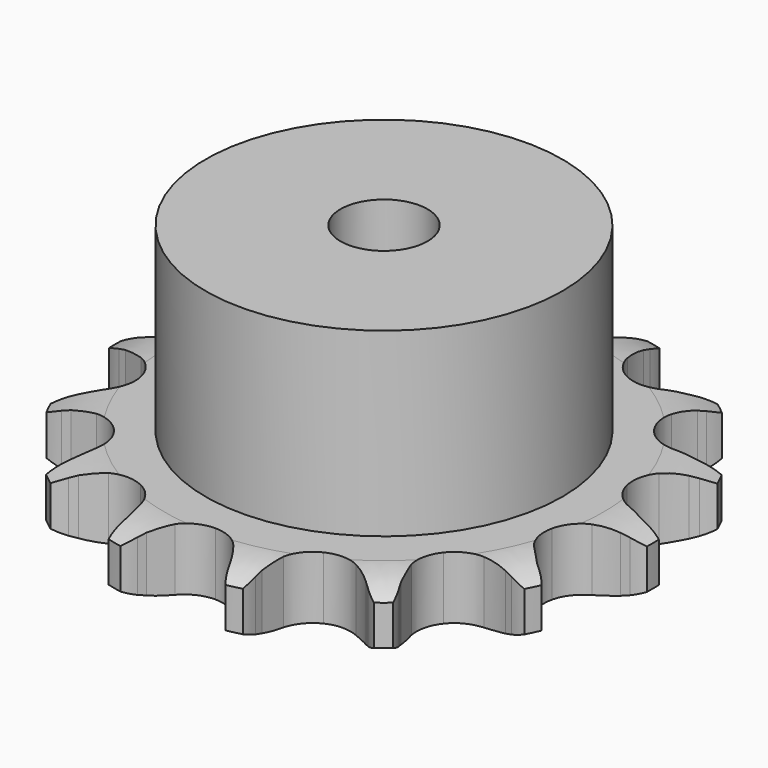
from build123d import *

# Parameters (mm, degrees)
PAD_DEPTH         = 7.2
SKETCH001_R       = 20.5
PAD001_DEPTH      = 28
SKETCH002_R       = 5
POCKET_DEPTH      = 0.001
POCKET_DEPTH_BACK = -28.001


with BuildPart() as part:
    # Sprocket → Pad (new body)
    with BuildSketch(Plane.XY):
        with BuildLine():
            ThreePointArc((-7.17871, 31.451983), (-6.034114, 30.303576), (-5.179097, 28.925938))
            Line((-5.179097, 28.925938), (-4.787351, 28.096657))
            ThreePointArc((-4.787351, 28.096657), (-4.133422, 26.906461), (-3.339318, 25.804831))
            ThreePointArc((-3.339318, 25.804831), (-1.847671, 24.637931), (0, 24.222266))
            ThreePointArc((0, 24.222266), (1.847671, 24.637931), (3.339318, 25.804831))
            ThreePointArc((3.339318, 25.804831), (4.133422, 26.906461), (4.787351, 28.096657))
            Line((4.787351, 28.096657), (5.179097, 28.925938))
            ThreePointArc((5.179097, 28.925938), (6.034114, 30.303576), (7.17871, 31.451983))
            ThreePointArc((7.17871, 31.451983), (7.71168, 29.920683), (7.884289, 28.308496))
            Line((7.884289, 28.308496), (7.877429, 27.391367))
            ThreePointArc((7.877429, 27.391367), (7.950192, 26.035308), (8.187675, 24.698225))
            ThreePointArc((8.187675, 24.698225), (9.025303, 22.999683), (10.509647, 21.823508))
            ThreePointArc((10.509647, 21.823508), (12.354692, 21.396334), (14.204918, 21.800473))
            Line((14.204918, 21.800473), (16.503937, 23.23706))
            ThreePointArc((16.503937, 23.23706), (16.854366, 23.533002), (17.2167, 23.814244))
            ThreePointArc((17.2167, 23.814244), (18.584778, 24.684474), (20.114298, 25.222532))
            ThreePointArc((20.114298, 25.222532), (19.930081, 23.611631), (19.386095, 22.084209))
            Line((19.386095, 22.084209), (18.981987, 21.260881))
            ThreePointArc((18.981987, 21.260881), (18.459172, 20.007543), (18.092998, 18.699833))
            ThreePointArc((18.092998, 18.699833), (18.110706, 16.806066), (18.93773, 15.102336))
            ThreePointArc((18.93773, 15.102336), (20.414714, 13.916931), (22.25706, 13.478265))
            Line((22.25706, 13.478265), (24.951716, 13.775078))
            ThreePointArc((24.951716, 13.775078), (25.395846, 13.889666), (25.844324, 13.985846))
            ThreePointArc((25.844324, 13.985846), (27.454498, 14.17631), (29.066003, 13.997449))
            ThreePointArc((29.066003, 13.997449), (28.201085, 12.626006), (27.048247, 11.485873))
            Line((27.048247, 11.485873), (26.32693, 10.919416))
            ThreePointArc((26.32693, 10.919416), (25.312087, 10.017039), (24.414782, 8.997709))
            ThreePointArc((24.414782, 8.997709), (23.609061, 7.283802), (23.614963, 5.389961))
            ThreePointArc((23.614963, 5.389961), (24.431352, 3.681109), (25.900918, 2.486521))
            Line((25.900918, 2.486521), (28.457501, 1.584772))
            ThreePointArc((28.457501, 1.584772), (28.907367, 1.495312), (29.353162, 1.38738))
            ThreePointArc((29.353162, 1.38738), (30.886519, 0.860354), (32.26083, 0))
            ThreePointArc((32.26083, 0), (30.886519, -0.860354), (29.353162, -1.38738))
            Line((29.353162, -1.38738), (28.457501, -1.584772))
            ThreePointArc((28.457501, -1.584772), (27.151633, -1.957463), (25.900918, -2.486521))
            ThreePointArc((25.900918, -2.486521), (24.431352, -3.681109), (23.614963, -5.389961))
            ThreePointArc((23.614963, -5.389961), (23.609061, -7.283802), (24.414782, -8.997709))
            Line((24.414782, -8.997709), (26.32693, -10.919416))
            ThreePointArc((26.32693, -10.919416), (26.69343, -11.195207), (27.048247, -11.485873))
            ThreePointArc((27.048247, -11.485873), (28.201085, -12.626006), (29.066003, -13.997449))
            ThreePointArc((29.066003, -13.997449), (27.454498, -14.17631), (25.844324, -13.985846))
            Line((25.844324, -13.985846), (24.951716, -13.775078))
            ThreePointArc((24.951716, -13.775078), (23.613465, -13.544265), (22.25706, -13.478265))
            ThreePointArc((22.25706, -13.478265), (20.414714, -13.916931), (18.93773, -15.102336))
            ThreePointArc((18.93773, -15.102336), (18.110706, -16.806066), (18.092998, -18.699833))
            Line((18.092998, -18.699833), (18.981987, -21.260881))
            ThreePointArc((18.981987, -21.260881), (19.192531, -21.668378), (19.386095, -22.084209))
            ThreePointArc((19.386095, -22.084209), (19.930081, -23.611631), (20.114298, -25.222532))
            ThreePointArc((20.114298, -25.222532), (18.584778, -24.684474), (17.2167, -23.814244))
            Line((17.2167, -23.814244), (16.503937, -23.23706))
            ThreePointArc((16.503937, -23.23706), (15.39836, -22.44846), (14.204918, -21.800473))
            ThreePointArc((14.204918, -21.800473), (12.354692, -21.396334), (10.509647, -21.823508))
            ThreePointArc((10.509647, -21.823508), (9.025303, -22.999683), (8.187675, -24.698225))
            Line((8.187675, -24.698225), (7.877429, -27.391367))
            ThreePointArc((7.877429, -27.391367), (7.890316, -27.849861), (7.884289, -28.308496))
            ThreePointArc((7.884289, -28.308496), (7.71168, -29.920683), (7.17871, -31.451983))
            ThreePointArc((7.17871, -31.451983), (6.034114, -30.303576), (5.179097, -28.925938))
            Line((5.179097, -28.925938), (4.787351, -28.096657))
            ThreePointArc((4.787351, -28.096657), (4.133422, -26.906461), (3.339318, -25.804831))
            ThreePointArc((3.339318, -25.804831), (1.847671, -24.637931), (0, -24.222266))
            ThreePointArc((0, -24.222266), (-1.847671, -24.637931), (-3.339318, -25.804831))
            Line((-3.339318, -25.804831), (-4.787351, -28.096657))
            ThreePointArc((-4.787351, -28.096657), (-4.974673, -28.515337), (-5.179097, -28.925938))
            ThreePointArc((-5.179097, -28.925938), (-6.034114, -30.303576), (-7.17871, -31.451983))
            ThreePointArc((-7.17871, -31.451983), (-7.71168, -29.920683), (-7.884289, -28.308496))
            Line((-7.884289, -28.308496), (-7.877429, -27.391367))
            ThreePointArc((-7.877429, -27.391367), (-7.950192, -26.035308), (-8.187675, -24.698225))
            ThreePointArc((-8.187675, -24.698225), (-9.025303, -22.999683), (-10.509647, -21.823508))
            ThreePointArc((-10.509647, -21.823508), (-12.354692, -21.396334), (-14.204918, -21.800473))
            Line((-14.204918, -21.800473), (-16.503937, -23.23706))
            ThreePointArc((-16.503937, -23.23706), (-16.854366, -23.533002), (-17.2167, -23.814244))
            ThreePointArc((-17.2167, -23.814244), (-18.584778, -24.684474), (-20.114298, -25.222532))
            ThreePointArc((-20.114298, -25.222532), (-19.930081, -23.611631), (-19.386095, -22.084209))
            Line((-19.386095, -22.084209), (-18.981987, -21.260881))
            ThreePointArc((-18.981987, -21.260881), (-18.459172, -20.007543), (-18.092998, -18.699833))
            ThreePointArc((-18.092998, -18.699833), (-18.110706, -16.806066), (-18.93773, -15.102336))
            ThreePointArc((-18.93773, -15.102336), (-20.414714, -13.916931), (-22.25706, -13.478265))
            Line((-22.25706, -13.478265), (-24.951716, -13.775078))
            ThreePointArc((-24.951716, -13.775078), (-25.395846, -13.889666), (-25.844324, -13.985846))
            ThreePointArc((-25.844324, -13.985846), (-27.454498, -14.17631), (-29.066003, -13.997449))
            ThreePointArc((-29.066003, -13.997449), (-28.201085, -12.626006), (-27.048247, -11.485873))
            Line((-27.048247, -11.485873), (-26.32693, -10.919416))
            ThreePointArc((-26.32693, -10.919416), (-25.312087, -10.017039), (-24.414782, -8.997709))
            ThreePointArc((-24.414782, -8.997709), (-23.609061, -7.283802), (-23.614963, -5.389961))
            ThreePointArc((-23.614963, -5.389961), (-24.431352, -3.681109), (-25.900918, -2.486521))
            Line((-25.900918, -2.486521), (-28.457501, -1.584772))
            ThreePointArc((-28.457501, -1.584772), (-28.907367, -1.495312), (-29.353162, -1.38738))
            ThreePointArc((-29.353162, -1.38738), (-30.886519, -0.860354), (-32.26083, 0))
            ThreePointArc((-32.26083, 0), (-30.886519, 0.860354), (-29.353162, 1.38738))
            Line((-29.353162, 1.38738), (-28.457501, 1.584772))
            ThreePointArc((-28.457501, 1.584772), (-27.151633, 1.957463), (-25.900918, 2.486521))
            ThreePointArc((-25.900918, 2.486521), (-24.431352, 3.681109), (-23.614963, 5.389961))
            ThreePointArc((-23.614963, 5.389961), (-23.609061, 7.283802), (-24.414782, 8.997709))
            Line((-24.414782, 8.997709), (-26.32693, 10.919416))
            ThreePointArc((-26.32693, 10.919416), (-26.69343, 11.195207), (-27.048247, 11.485873))
            ThreePointArc((-27.048247, 11.485873), (-28.201085, 12.626006), (-29.066003, 13.997449))
            ThreePointArc((-29.066003, 13.997449), (-27.454498, 14.17631), (-25.844324, 13.985846))
            Line((-25.844324, 13.985846), (-24.951716, 13.775078))
            ThreePointArc((-24.951716, 13.775078), (-23.613465, 13.544265), (-22.25706, 13.478265))
            ThreePointArc((-22.25706, 13.478265), (-20.414714, 13.916931), (-18.93773, 15.102336))
            ThreePointArc((-18.93773, 15.102336), (-18.110706, 16.806066), (-18.092998, 18.699833))
            Line((-18.092998, 18.699833), (-18.981987, 21.260881))
            ThreePointArc((-18.981987, 21.260881), (-19.192531, 21.668378), (-19.386095, 22.084209))
            ThreePointArc((-19.386095, 22.084209), (-19.930081, 23.611631), (-20.114298, 25.222532))
            ThreePointArc((-20.114298, 25.222532), (-18.584778, 24.684474), (-17.2167, 23.814244))
            Line((-17.2167, 23.814244), (-16.503937, 23.23706))
            ThreePointArc((-16.503937, 23.23706), (-15.39836, 22.44846), (-14.204918, 21.800473))
            ThreePointArc((-14.204918, 21.800473), (-12.354692, 21.396334), (-10.509647, 21.823508))
            ThreePointArc((-10.509647, 21.823508), (-9.025303, 22.999683), (-8.187675, 24.698225))
            Line((-8.187675, 24.698225), (-7.877429, 27.391367))
            ThreePointArc((-7.877429, 27.391367), (-7.890316, 27.849861), (-7.884289, 28.308496))
            ThreePointArc((-7.884289, 28.308496), (-7.71168, 29.920683), (-7.17871, 31.451983))
        make_face()
    extrude(amount=PAD_DEPTH)

    # Sketch → Groove (revolve, cut)
    with BuildSketch(Plane.XZ):
        with BuildLine():
            Line((25.233431, 0), (30.9, 0))
            Line((36.566569, 0), (30.9, 0))
            Line((36.566569, 7.2), (36.566569, 0))
            Line((30.9, 7.2), (36.566569, 7.2))
            Line((25.233431, 7.2), (30.9, 7.2))
            ThreePointArc((30.9, 5.9), (28.14032, 6.870833), (25.233431, 7.2))
            Line((30.9, 1.3), (30.9, 5.9))
            ThreePointArc((25.233431, 0), (28.14032, 0.329167), (30.9, 1.3))
        make_face()
    revolve(axis=Axis((0, 0, 0), (0, 0, 1)), mode=Mode.SUBTRACT)

    # Sketch001 → Pad001 (join)
    with BuildSketch(Plane.XY):
        Circle(SKETCH001_R)
    extrude(amount=PAD001_DEPTH)

    # Sketch002 → Pocket (cut, two sides)
    with BuildSketch(Plane.XY) as pocket_sk:
        Circle(SKETCH002_R)
    extrude(amount=-POCKET_DEPTH, mode=Mode.SUBTRACT)
    extrude(pocket_sk.sketch, amount=-POCKET_DEPTH_BACK, mode=Mode.SUBTRACT)


solid = part.part
